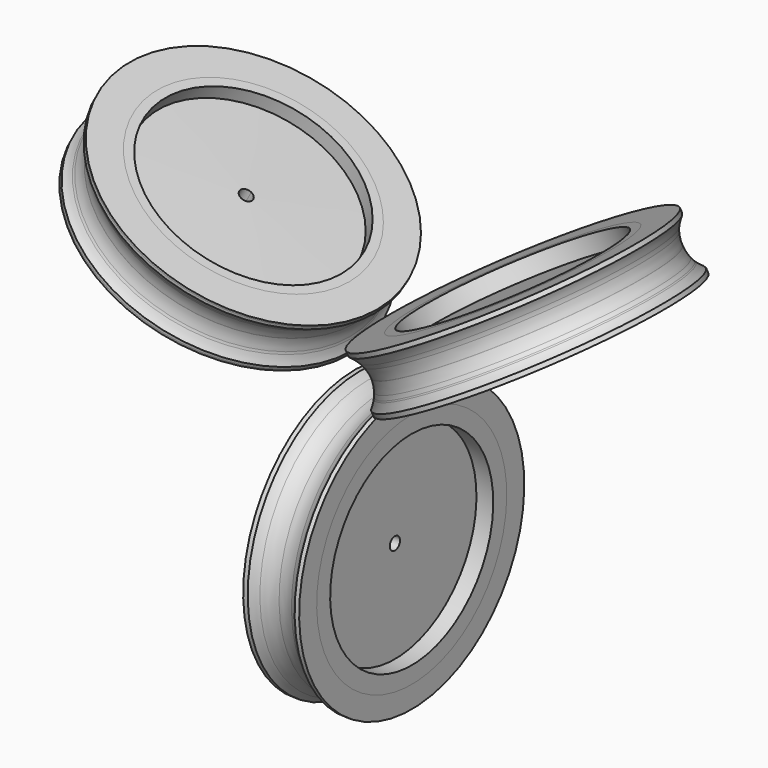
from build123d import *

# Parameters (mm, degrees)
F0_W      = 3
F0_H      = 10
F0_W_2    = 28
F0_W_3    = 12.5
F0_H_2    = 112.2910165736
F0_H_3    = 6.6773280071
F0_H_4    = 6.2366079051
F7_R      = 7
F8_DEPTH  = 336.8622286717
F9_R      = 7
F10_DEPTH = 321.5253318733
F12_DEPTH = 335.7240124297


with BuildPart() as f1:
    # F0 (on Front) → F1 (revolve)
    with BuildSketch(Plane.XZ):
        Polygon((-103.2275768151, 42.9878358827), (-95.3669020442, 38.6180776259), (-93.873355638, 41.2049758849), (-87.1158145145, 52.909380445), (-95.2106600579, 57.4093145069), align=None)
        Polygon((-85.2131016002, 36.2049758849), (-78.3743722786, 48.050002529), (-87.1158145145, 52.909380445), (-93.873355638, 41.2049758849), align=None)
        Polygon((-78.3743722786, 48.050002529), (-71.1234165707, 60.6090262185), (-79.8648588066, 65.4684041346), (-87.1158145145, 52.909380445), align=None)
        Polygon((-87.1158145145, 52.909380445), (-79.8648588066, 65.4684041346), (-88.1654907864, 70.082735116), (-95.2106600579, 57.4093145069), align=None)
        Polygon((-88.1654907864, 70.082735116), (-79.8648588066, 65.4684041346), (-72.3315707937, 78.5164417209), (-80.7691462619, 83.3878781888), align=None)
        Polygon((-79.8648588066, 65.4684041346), (-71.1234165707, 60.6090262185), (-63.6713167559, 73.5164417209), (-72.3315707937, 78.5164417209), align=None)
        Polygon((-57.2131016002, 84.7023984968), (-65.873355638, 89.7023984968), (-72.3315707937, 78.5164417209), (-63.6713167559, 73.5164417209), align=None)
        Polygon((-65.873355638, 89.7023984968), (-64.373355638, 92.3004747082), (-73.1133172244, 97.159803002), (-80.7691462619, 83.3878781888), (-72.3315707937, 78.5164417209), align=None)
        Polygon((-55.7131016002, 87.3004747082), (-64.373355638, 92.3004747082), (-65.873355638, 89.7023984968), (-57.2131016002, 84.7023984968), align=None)
        Polygon((-95.2106600579, 57.4093145069), (-88.1654907864, 70.082735116), (-185.0580164192, 123.9454029211), (-185.0611519935, 123.9397623963), (-192.1031856907, 111.271982312), align=None)
        Polygon((-88.1654907864, 70.082735116), (-80.7691462619, 83.3878781888), (-176.7870693066, 138.8238519057), (-185.0580164192, 123.9454029211), align=None)
        Polygon((-95.2106600579, 57.4093145069), (-88.1654907864, 70.082735116), (-185.0580164192, 123.9454029211), (-185.0611519935, 123.9397623963), (-192.1031856907, 111.271982312), align=None)
    revolve(axis=Axis((-180.9241106501, 0, 131.381807151), (0.4858737429, 0, 0.8740290075)))

    # F11 (on face) → F12 (cut, through all)
    with BuildSketch(Plane(origin=(1.9031900044, 0, 3.4236121938), x_dir=(0.8740290075, 0, -0.4858737429), z_dir=(-0.4858737429, 0, -0.8740290075))):
        with BuildLine():
            ThreePointArc((-216.166861741, 0), (-218.2171142727, 4.9497474683), (-223.166861741, 7))
            Line((-223.166861741, 7), (-223.166861741, -7))
            ThreePointArc((-223.166861741, -7), (-218.2171142727, -4.9497474683), (-216.166861741, 0))
        make_face()
        with BuildLine():
            Line((-223.166861741, -7), (-223.166861741, 7))
            ThreePointArc((-223.166861741, 7), (-230.166861741, 0), (-223.166861741, -7))
        make_face()
    extrude(amount=-F12_DEPTH, mode=Mode.SUBTRACT)


with BuildPart() as f2:
    # F0 (on Front) → F2 (revolve)
    with BuildSketch(Plane.XZ):
        with BuildLine():
            Line((-34.7835859764, 73.5783008447), (-33.8192680471, 75.3127178565))
            Line((-33.8192680471, 75.3127178565), (-64.373355638, 92.3004747082))
            Line((-64.373355638, 92.3004747082), (-55.7131016002, 87.3004747082))
            Line((-55.7131016002, 87.3004747082), (-57.2131016002, 84.7023984968))
            Line((-57.2131016002, 84.7023984968), (-63.6713167559, 73.5164417209))
            Line((-63.6713167559, 73.5164417209), (-48.6900514954, 64.86700419))
            ThreePointArc((-48.6900514954, 64.86700419), (-47.5126653644, 65.7077022177), (-46.3029744339, 66.5012128529))
            Line((-46.3029744339, 66.5012128529), (-41.9109235462, 74.1084681399))
            Line((-41.9109235462, 74.1084681399), (-40.4109235462, 76.7065443513))
            Line((-40.4109235462, 76.7065443513), (-34.7835859764, 73.5783008447))
        make_face()
        with BuildLine():
            ThreePointArc((-58.6192320535, 53.6579354876), (-58.5765123283, 53.732533951), (-58.5336175074, 53.8070318703))
            ThreePointArc((-58.5336175074, 53.8070318703), (-54.1769452936, 59.8399763764), (-48.6900514954, 64.86700419))
            Line((-48.6900514954, 64.86700419), (-63.6713167559, 73.5164417209))
            Line((-63.6713167559, 73.5164417209), (-71.1234165707, 60.6090262185))
            Line((-71.1234165707, 60.6090262185), (-58.6192320535, 53.6579354876))
        make_face()
        with BuildLine():
            ThreePointArc((-63.2055225909, 39.6176213275), (-61.6280055997, 46.8715395015), (-58.6192320535, 53.6579354876))
            Line((-58.6192320535, 53.6579354876), (-71.1234165707, 60.6090262185))
            Line((-71.1234165707, 60.6090262185), (-78.3743722786, 48.050002529))
            Line((-78.3743722786, 48.050002529), (-63.2055225909, 39.6176213275))
        make_face()
        with BuildLine():
            Line((-67.9109235462, 29.0751471431), (-63.4117791818, 36.8678937728))
            ThreePointArc((-63.4117791818, 36.8678937728), (-63.3345557172, 38.244700667), (-63.2055225909, 39.6176213275))
            Line((-63.2055225909, 39.6176213275), (-78.3743722786, 48.050002529))
            Line((-78.3743722786, 48.050002529), (-85.2131016002, 36.2049758849))
            Line((-85.2131016002, 36.2049758849), (-93.873355638, 41.2049758849))
            Line((-93.873355638, 41.2049758849), (-95.3669020442, 38.6180776259))
            Line((-95.3669020442, 38.6180776259), (-64.6456062812, 21.5400735444))
            Line((-64.6456062812, 21.5400735444), (-63.6456062812, 23.272124352))
            Line((-63.6456062812, 23.272124352), (-69.4109235462, 26.4770709318))
            Line((-69.4109235462, 26.4770709318), (-67.9109235462, 29.0751471431))
        make_face()
        Polygon((-63.6456062812, 23.272124352), (-62.1456062812, 25.8702005633), (-67.9109235462, 29.0751471431), (-69.4109235462, 26.4770709318), align=None)
        with BuildLine():
            ThreePointArc((-62.1456062812, 25.8702005633), (-63.1969046171, 31.3208981111), (-63.4117791818, 36.8678937728))
            Line((-63.4117791818, 36.8678937728), (-67.9109235462, 29.0751471431))
            Line((-67.9109235462, 29.0751471431), (-62.1456062812, 25.8702005633))
        make_face()
        with BuildLine():
            ThreePointArc((-46.3029744339, 66.5012128529), (-41.4613272129, 69.0583600036), (-36.2923764492, 70.864598461))
            Line((-36.2923764492, 70.864598461), (-41.9109235462, 74.1084681399))
            Line((-41.9109235462, 74.1084681399), (-46.3029744339, 66.5012128529))
        make_face()
        Polygon((-41.9109235462, 74.1084681399), (-36.2923764492, 70.864598461), (-34.7835859764, 73.5783008447), (-40.4109235462, 76.7065443513), align=None)
    revolve(axis=Axis((-198.7478278058, 0, 99.3190623639), (0.4858737429, 0, 0.8740290075)))


with BuildPart() as f3:
    # F0 (on Front) → F3 (revolve)
    with BuildSketch(Plane.XZ):
        Polygon((131.1587983931, 126.5418284505), (36.0195008386, 71.6131293969), (42.2695008386, 60.7878118496), (137.4087983931, 115.7165109032), align=None)
        Polygon((124.9087983931, 137.3671459978), (29.7695008386, 82.4384469442), (36.0195008386, 71.6131293969), (131.1587983931, 126.5418284505), align=None)
        Polygon((13.3592468008, 90.8618407029), (21.1092468008, 77.4384469442), (29.7695008386, 82.4384469442), (20.5195008386, 98.4599169142), (11.8592468008, 93.4599169142), align=None)
        Polygon((26.7503723459, 67.6677308882), (27.3592468008, 66.6131293969), (27.7530156023, 66.8404719204), align=None)
        Polygon((21.1092468008, 77.4384469442), (26.7503723459, 67.6677308882), (27.7530156023, 66.8404719204), (36.0195008386, 71.6131293969), (29.7695008386, 82.4384469442), align=None)
        Polygon((36.0195008386, 71.6131293969), (27.7530156023, 66.8404719204), (38.0449900841, 58.3487894283), (42.2695008386, 60.7878118496), align=None)
        Polygon((27.7530156023, 66.8404719204), (27.3592468008, 66.6131293969), (33.6092468008, 55.7878118496), (38.0449900841, 58.3487894283), align=None)
        Polygon((47.8942408099, 50.2223886005), (39.5903942614, 45.4281605603), (42.8592468008, 39.7663418796), (51.5195008386, 44.7663418796), (42.2695008386, 60.7878118496), (38.0449900841, 58.3487894283), align=None)
        Polygon((47.8942408099, 50.2223886005), (39.5903942614, 45.4281605603), (42.8592468008, 39.7663418796), (51.5195008386, 44.7663418796), (42.2695008386, 60.7878118496), (38.0449900841, 58.3487894283), align=None)
        Polygon((38.0449900841, 58.3487894283), (33.6092468008, 55.7878118496), (39.5903942614, 45.4281605603), (47.8942408099, 50.2223886005), align=None)
    revolve(axis=Axis((131.1587983931, 0, 126.5418284505), (-0.5, 0, 0.8660254038)))

    # F7 (on face) → F8 (cut, through all)
    with BuildSketch(Plane(origin=(-15.7545194415, 0, 27.2876281214), x_dir=(0.8660254038, 0, 0.5), z_dir=(0.5, 0, -0.8660254038))):
        with Locations((176.8577655635, 0)):
            Circle(F7_R)
    extrude(amount=-F8_DEPTH, mode=Mode.SUBTRACT)


with BuildPart() as f4:
    # F0 (on Front) → F4 (revolve)
    with BuildSketch(Plane.XZ):
        with BuildLine():
            Line((27.3592468008, 66.6131293969), (4.9388893759, 53.6687300023))
            ThreePointArc((4.9388893759, 53.6687300023), (7.6084098129, 47.8790850185), (9.2327489926, 41.7140342781))
            Line((9.2327489926, 41.7140342781), (33.6092468008, 55.7878118496))
            Line((33.6092468008, 55.7878118496), (27.3592468008, 66.6131293969))
        make_face()
        with BuildLine():
            ThreePointArc((-3.1668638697, 63.4226279137), (1.2606750631, 58.9607250995), (4.8594420497, 53.8070318703))
            ThreePointArc((4.8594420497, 53.8070318703), (4.8992410501, 53.7379242137), (4.9388893759, 53.6687300023))
            Line((4.9388893759, 53.6687300023), (27.3592468008, 66.6131293969))
            Line((27.3592468008, 66.6131293969), (26.7503723459, 67.6677308882))
            Line((26.7503723459, 67.6677308882), (17.4610411204, 75.3321544126))
            Line((17.4610411204, 75.3321544126), (-3.1668638697, 63.4226279137))
        make_face()
        with BuildLine():
            ThreePointArc((-7.1283113559, 66.3473323533), (-5.0983460611, 64.9516767264), (-3.1668638697, 63.4226279137))
            Line((-3.1668638697, 63.4226279137), (17.4610411204, 75.3321544126))
            Line((17.4610411204, 75.3321544126), (4.6989927629, 85.8618407029))
            Line((4.6989927629, 85.8618407029), (3.1989927629, 88.4599169142))
            Line((3.1989927629, 88.4599169142), (0.7119074344, 87.0239975303))
            Line((0.7119074344, 87.0239975303), (-19.8102619427, 75.1755175161))
            Line((-19.8102619427, 75.1755175161), (-18.8104995912, 73.4438783277))
            Line((-18.8104995912, 73.4438783277), (-13.1215153128, 76.7278661066))
            Line((-13.1215153127, 76.7278661066), (-11.6215153127, 74.1297898953))
            Line((-11.6215153127, 74.1297898953), (-7.1283113559, 66.3473323533))
        make_face()
        Polygon((4.6989927629, 85.8618407029), (17.4610411204, 75.3321544126), (21.1092468008, 77.4384469442), (13.3592468008, 90.8618407029), align=None)
        Polygon((3.1989927629, 88.4599169142), (4.6989927629, 85.8618407029), (13.3592468008, 90.8618407029), (11.8592468008, 93.4599169142), (9.3721614722, 92.0239975303), align=None)
        Polygon((21.1092468008, 77.4384469442), (17.4610411204, 75.3321544126), (26.7503723459, 67.6677308882), align=None)
        with BuildLine():
            ThreePointArc((-17.3102619427, 70.8453904971), (-12.0472858313, 68.9857080662), (-7.1283113559, 66.3473323533))
            Line((-7.1283113559, 66.3473323533), (-11.6215153127, 74.1297898953))
            Line((-11.6215153127, 74.1297898953), (-17.3102619427, 70.8453904971))
        make_face()
        Polygon((-18.8104995912, 73.4438783277), (-17.3102619427, 70.8453904971), (-11.6215153127, 74.1297898953), (-13.1215153127, 76.7278661066), align=None)
        Polygon((15.8784846873, 26.4983926871), (14.3780688547, 29.0971891415), (8.411213743, 25.6522237365), (9.9116295755, 23.0534272821), align=None)
        with BuildLine():
            Line((14.3780688547, 29.0971891415), (9.7257841362, 37.1551826452))
            ThreePointArc((9.7257841362, 37.1551826452), (9.7536290601, 36.331316329), (9.7629122712, 35.5070318703))
            ThreePointArc((9.7629122712, 35.5070318703), (9.4234130528, 30.5334935859), (8.411213743, 25.6522237365))
            Line((8.411213743, 25.6522237365), (14.3780688547, 29.0971891415))
        make_face()
        with BuildLine():
            Line((33.6092468008, 55.7878118496), (9.2327489926, 41.7140342781))
            ThreePointArc((9.2327489926, 41.7140342781), (9.5507312661, 39.4423372961), (9.7257841362, 37.1551826452))
            Line((9.7257841362, 37.1551826452), (14.3780688547, 29.0971891415))
            Line((14.3780688547, 29.0971891415), (15.8784846873, 26.4983926871))
            Line((15.8784846873, 26.4983926871), (9.9116295755, 23.0534272821))
            Line((9.9116295755, 23.0534272821), (10.911213743, 21.3220967176))
            Line((10.911213743, 21.3220967176), (12.4248608065, 22.1950409332))
            Line((12.4248608065, 22.1950409332), (31.7119074344, 33.3304224956))
            Line((31.7119074344, 33.3304224956), (40.3721614722, 38.3304224956))
            Line((40.3721614722, 38.3304224956), (42.8592468008, 39.7663418796))
            Line((42.8592468008, 39.7663418796), (39.5903942614, 45.4281605603))
            Line((39.5903942614, 45.4281605603), (33.6092468008, 55.7878118496))
        make_face()
    revolve(axis=Axis((131.1587983931, 0, 126.5418284505), (-0.5, 0, 0.8660254038)))


with BuildPart() as f5:
    # F0 (on Front) → F5 (revolve)
    with BuildSketch(Plane.XZ):
        with Locations((2.881219505, -19.1681189128)):
            Rectangle(F0_W, F0_H)
        with Locations((-12.618780495, -19.1681189128)):
            Rectangle(F0_W_2, F0_H)
        Polygon((-26.618780495, -24.1681189128), (-26.618780495, -14.1681189128), (-57.618780495, -14.1681189128), (-57.618780495, -22.7393822372), (-57.618780495, -24.1681189128), align=None)
        Polygon((-26.618780495, -32.7393822372), (-26.618780495, -24.1681189128), (-57.618780495, -24.1681189128), (-57.618780495, -26.7077268179), (-57.618780495, -32.7393822372), (-39.118780495, -32.7393822372), align=None)
        Polygon((4.381219505, -32.7393822372), (4.381219505, -24.1681189128), (1.381219505, -24.1681189128), (-26.618780495, -24.1681189128), (-26.618780495, -32.7393822372), (-14.118780495, -32.7393822372), align=None)
        with Locations((-20.368780495, -88.884890524)):
            Rectangle(F0_W_3, F0_H_2)
        with Locations((-32.868780495, -88.884890524)):
            Rectangle(F0_W_3, F0_H_2)
    revolve(axis=Axis((-26.618780495, 0, -145.0303988108), (-1, 0, 0)))

    # F9 (on face) → F10 (cut, through all)
    with BuildSketch(Plane(origin=(-39.118780495, 0, 0), x_dir=(0, -1, 0), z_dir=(-1, 0, 0))):
        with Locations((0, -145.0303988108)):
            Circle(F9_R)
    extrude(amount=-F10_DEPTH, mode=Mode.SUBTRACT)


with BuildPart() as f6:
    # F0 (on Front) → F6 (revolve)
    with BuildSketch(Plane.XZ):
        with BuildLine():
            Line((-0.618780495, 3.2922731821), (-9.4655787943, 3.2922731821))
            ThreePointArc((-9.4655787943, 3.2922731821), (-17.7730617965, 0.0471470157), (-26.618780495, -1.0923170577))
            Line((-26.618780495, -1.0923170577), (-26.618780495, -14.1681189128))
            Line((-26.618780495, -14.1681189128), (1.381219505, -14.1681189128))
            Line((1.381219505, -14.1681189128), (4.381219505, -14.1681189128))
            Line((4.381219505, -14.1681189128), (4.381219505, 9.9696011892))
            Line((4.381219505, 9.9696011892), (2.381219505, 9.9696011892))
            Line((2.381219505, 9.9696011892), (2.381219505, 3.2922731821))
            Line((2.381219505, 3.2922731821), (-0.618780495, 3.2922731821))
        make_face()
        with Locations((0.881219505, 6.6309371856)):
            Rectangle(F0_W, F0_H_3)
        with BuildLine():
            Line((-0.618780495, 3.2922731821), (-0.618780495, 9.9696011892))
            ThreePointArc((-0.618780495, 9.9696011892), (-4.7879449853, 6.2941014409), (-9.4655787943, 3.2922731821))
            Line((-9.4655787943, 3.2922731821), (-0.618780495, 3.2922731821))
        make_face()
        with BuildLine():
            Line((-52.618780495, 3.2922731821), (-44.2085966634, 3.2922731821))
            ThreePointArc((-44.2085966634, 3.2922731821), (-48.6378566097, 6.1082823016), (-52.618780495, 9.5288810872))
            Line((-52.618780495, 9.5288810872), (-52.618780495, 3.2922731821))
        make_face()
        with Locations((-54.118780495, 6.4105771346)):
            Rectangle(F0_W, F0_H_4)
        with BuildLine():
            Line((-26.618780495, -14.1681189128), (-26.618780495, -1.0923170577))
            ThreePointArc((-26.618780495, -1.0923170577), (-35.689445609, -0.0062861944), (-44.2085966634, 3.2922731821))
            Line((-44.2085966634, 3.2922731821), (-52.618780495, 3.2922731821))
            Line((-52.618780495, 3.2922731821), (-55.618780495, 3.2922731821))
            Line((-55.618780495, 3.2922731821), (-55.618780495, 9.5288810872))
            Line((-55.618780495, 9.5288810872), (-57.618780495, 9.5288810872))
            Line((-57.618780495, 9.5288810872), (-57.618780495, -12.7393822372))
            Line((-57.618780495, -12.7393822372), (-57.618780495, -14.1681189128))
            Line((-57.618780495, -14.1681189128), (-26.618780495, -14.1681189128))
        make_face()
    revolve(axis=Axis((-26.618780495, 0, -145.0303988108), (-1, 0, 0)))


solid = Compound([f1.part, f2.part, f3.part, f4.part, f5.part, f6.part])
